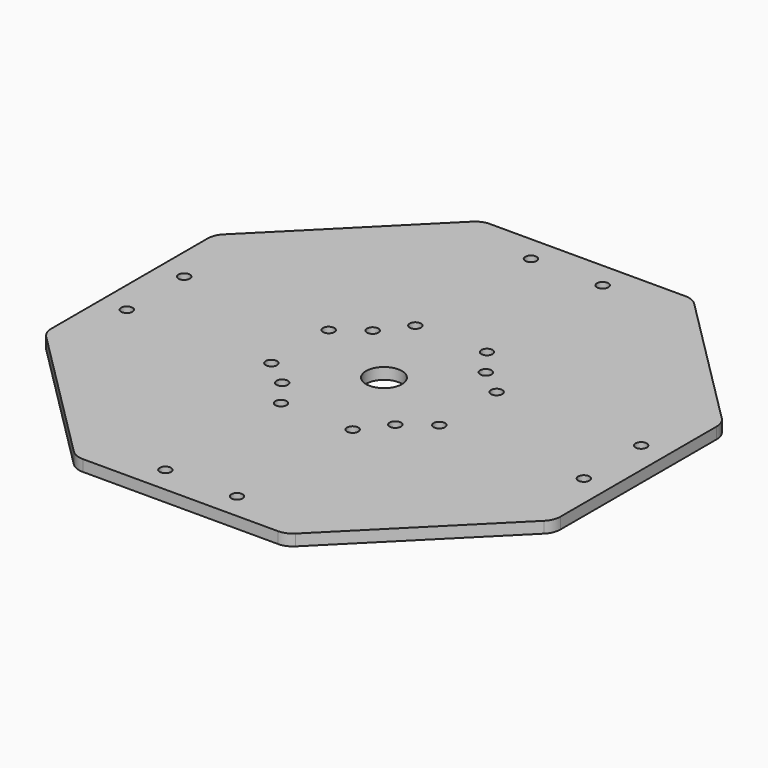
from build123d import *

# Parameters (mm, degrees)
F0_R     = 1.5
F0_R_2   = 4.75
F1_DEPTH = 3
F2_R     = 5


with BuildPart() as f1:
    # F0 (on Top) → F1 (new body)
    with BuildSketch(Plane.XY):
        Polygon((67.5, 27.96), (27.96, 67.5), (-27.96, 67.5), (-67.5, 27.96), (-67.5, -27.96), (-27.96, -67.5), (27.96, -67.5), (67.5, -27.96), align=None)
        with Locations((-9.5, -60.598515)):
            Circle(F0_R, mode=Mode.SUBTRACT)
        with Locations((-60.598515, -9.5)):
            Circle(F0_R, mode=Mode.SUBTRACT)
        with Locations((-9.5, -22.265932)):
            Circle(F0_R, mode=Mode.SUBTRACT)
        with Locations((-22.265932, -9.5)):
            Circle(F0_R, mode=Mode.SUBTRACT)
        with Locations((-15.00127, -15.00127)):
            Circle(F0_R, mode=Mode.SUBTRACT)
        with Locations((9.5, -60.598515)):
            Circle(F0_R, mode=Mode.SUBTRACT)
        with Locations((9.5, -22.265932)):
            Circle(F0_R, mode=Mode.SUBTRACT)
        with Locations((15.00127, -15.00127)):
            Circle(F0_R, mode=Mode.SUBTRACT)
        with Locations((22.265932, -9.5)):
            Circle(F0_R, mode=Mode.SUBTRACT)
        with Locations((60.598515, -9.5)):
            Circle(F0_R, mode=Mode.SUBTRACT)
        with Locations((-60.598515, 9.5)):
            Circle(F0_R, mode=Mode.SUBTRACT)
        with Locations((-22.265932, 9.5)):
            Circle(F0_R, mode=Mode.SUBTRACT)
        with Locations((-15.00127, 15.00127)):
            Circle(F0_R, mode=Mode.SUBTRACT)
        with Locations((-9.5, 22.265932)):
            Circle(F0_R, mode=Mode.SUBTRACT)
        with Locations((-9.5, 60.598515)):
            Circle(F0_R, mode=Mode.SUBTRACT)
        Circle(F0_R_2, mode=Mode.SUBTRACT)
        with Locations((15.00127, 15.00127)):
            Circle(F0_R, mode=Mode.SUBTRACT)
        with Locations((22.265932, 9.5)):
            Circle(F0_R, mode=Mode.SUBTRACT)
        with Locations((9.5, 22.265932)):
            Circle(F0_R, mode=Mode.SUBTRACT)
        with Locations((60.598515, 9.5)):
            Circle(F0_R, mode=Mode.SUBTRACT)
        with Locations((9.5, 60.598515)):
            Circle(F0_R, mode=Mode.SUBTRACT)
    extrude(amount=F1_DEPTH)

    # F2
    f2_edges = [f1.edges().sort_by_distance(p)[0] for p in [
        (-27.96, 67.5, 1.5),
        (-67.5, 27.96, 1.5),
        (-67.5, -27.96, 1.5),
        (-27.96, -67.5, 1.5),
        (27.96, -67.5, 1.5),
        (67.5, -27.96, 1.5),
        (67.5, 27.96, 1.5),
        (27.96, 67.5, 1.5),
    ]]
    fillet(f2_edges, radius=F2_R)


solid = f1.part
